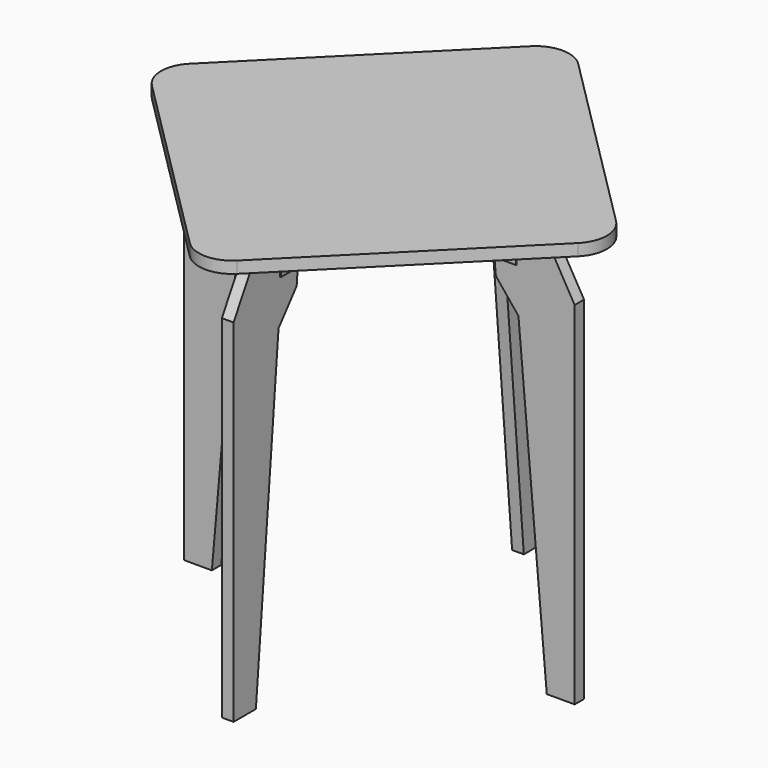
from build123d import *

# Parameters (mm, degrees)
F1_DEPTH = 10.5
F3_DEPTH = 2
F6_COUNT = 4
F7_W     = 92.264973081
F7_H     = 21
F8_DEPTH = 21
F9_R     = 60


with BuildPart() as f1:
    # F0 (on Front) → F1 (new body, symmetric)
    with BuildSketch(Plane.XZ):
        Polygon((-350, 630), (-350, 0), (-300, 0), (-249.256575155, 580), (-208.7488663526, 630), (-200, 730), (-292.264973081, 730), align=None)
    extrude(amount=F1_DEPTH, both=True)


with BuildPart() as f1b:
    # F0 (on Front) → F1, piece 2 (new body, symmetric)
    with BuildSketch(Plane.XZ):
        Polygon((300, 0), (350, 0), (350, 630), (292.264973081, 730), (200, 730), (208.7488663526, 630), (249.256575155, 580), align=None)
    extrude(amount=F1_DEPTH, both=True)


with BuildPart() as f3:
    # F2 (on face) → F3 (new body)
    with BuildSketch(Plane.XZ.offset(10.5)):
        Polygon((246.1324865405, 730), (-200, 730), (-206.1242064468, 660), (246.1324865405, 660), align=None)
        Polygon((-200, 730), (-246.1324865405, 730), (-246.1324865405, 660), (-206.1242064468, 660), align=None)
    extrude(amount=F3_DEPTH)


with BuildPart() as f4_1:
    # F4: instance of F3
    add(f3.part.mirror(Plane.XZ))


with BuildPart() as f6_1:
    # F6: instance of F1
    add(f1.part.rotate(Axis((0, 0, 283.0613553524), (0, 0, 1)), 1 * 360 / F6_COUNT))


with BuildPart() as f6_2:
    # F6: instance of F1
    add(f1.part.rotate(Axis((0, 0, 283.0613553524), (0, 0, 1)), 2 * 360 / F6_COUNT))


with BuildPart() as f6_3:
    # F6: instance of F1
    add(f1.part.rotate(Axis((0, 0, 283.0613553524), (0, 0, 1)), 3 * 360 / F6_COUNT))


with BuildPart() as f6_4:
    # F6: instance of F1b
    add(f1b.part.rotate(Axis((0, 0, 283.0613553524), (0, 0, 1)), 1 * 360 / F6_COUNT))


with BuildPart() as f6_5:
    # F6: instance of F1b
    add(f1b.part.rotate(Axis((0, 0, 283.0613553524), (0, 0, 1)), 2 * 360 / F6_COUNT))


with BuildPart() as f6_6:
    # F6: instance of F1b
    add(f1b.part.rotate(Axis((0, 0, 283.0613553524), (0, 0, 1)), 3 * 360 / F6_COUNT))


with BuildPart() as f6_7:
    # F6: instance of F3
    add(f3.part.rotate(Axis((0, 0, 283.0613553524), (0, 0, 1)), 1 * 360 / F6_COUNT))


with BuildPart() as f6_8:
    # F6: instance of F3
    add(f3.part.rotate(Axis((0, 0, 283.0613553524), (0, 0, 1)), 2 * 360 / F6_COUNT))


with BuildPart() as f6_9:
    # F6: instance of F3
    add(f3.part.rotate(Axis((0, 0, 283.0613553524), (0, 0, 1)), 3 * 360 / F6_COUNT))


with BuildPart() as f6_10:
    # F6: instance of F4_1
    add(f4_1.part.rotate(Axis((0, 0, 283.0613553524), (0, 0, 1)), 1 * 360 / F6_COUNT))


with BuildPart() as f6_11:
    # F6: instance of F4_1
    add(f4_1.part.rotate(Axis((0, 0, 283.0613553524), (0, 0, 1)), 2 * 360 / F6_COUNT))


with BuildPart() as f6_12:
    # F6: instance of F4_1
    add(f4_1.part.rotate(Axis((0, 0, 283.0613553524), (0, 0, 1)), 3 * 360 / F6_COUNT))


with BuildPart() as f8:
    # F7 (on face) → F8 (new body)
    with BuildSketch(Plane.XY.offset(730)):
        Polygon((0, 424.2640687119), (-424.2640687119, 0), (0, -424.2640687119), (424.2640687119, 0), align=None)
        with Locations((-246.1324865405, 0)):
            Rectangle(F7_W, F7_H, mode=Mode.SUBTRACT)
        with Locations((-246.1324865405, 0)):
            Rectangle(F7_W, F7_H)
    extrude(amount=F8_DEPTH)

    # F9
    f9_edges = [f8.edges().sort_by_distance(p)[0] for p in [
        (0, -424.264069, 740.5),
        (424.264069, 0, 740.5),
        (-424.264069, 0, 740.5),
        (0, 424.264069, 740.5),
    ]]
    fillet(f9_edges, radius=F9_R)


solid = Compound([f1.part, f1b.part, f3.part, f4_1.part, f6_1.part, f6_4.part, f6_7.part, f6_10.part, f8.part])
